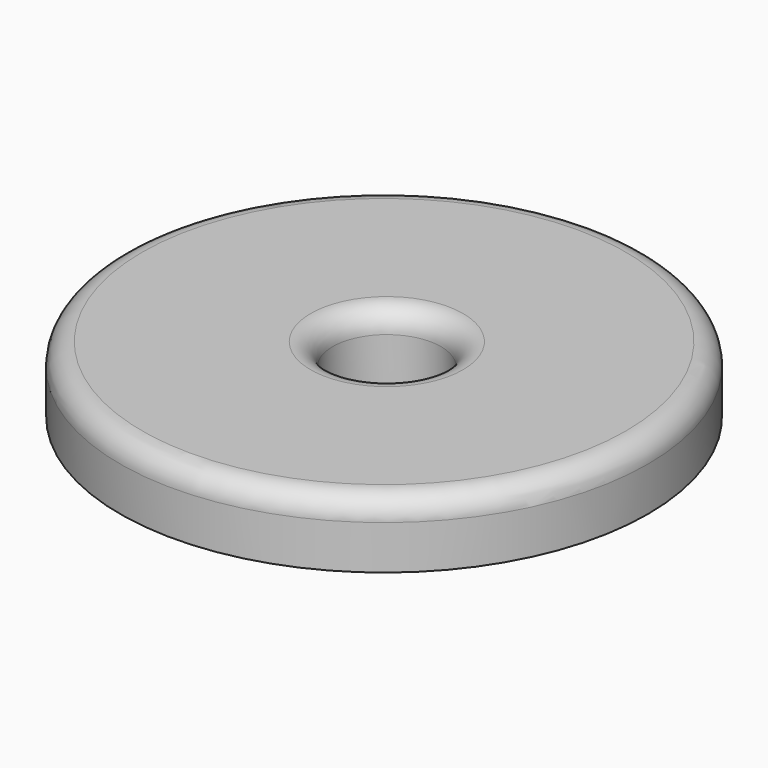
from build123d import *

# Parameters (mm, degrees)
F0_R     = 76.2
F1_DEPTH = 19.05
F2_R     = 15.6543846093
F3_DEPTH = 19.051
F4_R     = 6.35


with BuildPart() as f1:
    # F0 (on Top) → F1 (new body)
    with BuildSketch(Plane.XY):
        with Locations((-0.2828244178, 0.0797724133)):
            Circle(F0_R)
    extrude(amount=F1_DEPTH)

    # F2 (on face) → F3 (cut, through all)
    with BuildSketch(Plane.XY.offset(19.05)):
        with Locations((0.221362061, 0.4437770694)):
            Circle(F2_R)
    extrude(amount=-F3_DEPTH, mode=Mode.SUBTRACT)

    # F4
    f4_edges = [f1.edges().sort_by_distance(p)[0] for p in [
        (-76.482824, 0.079772, 19.05),
        (-15.433023, 0.443777, 19.05),
    ]]
    fillet(f4_edges, radius=F4_R)


solid = f1.part
